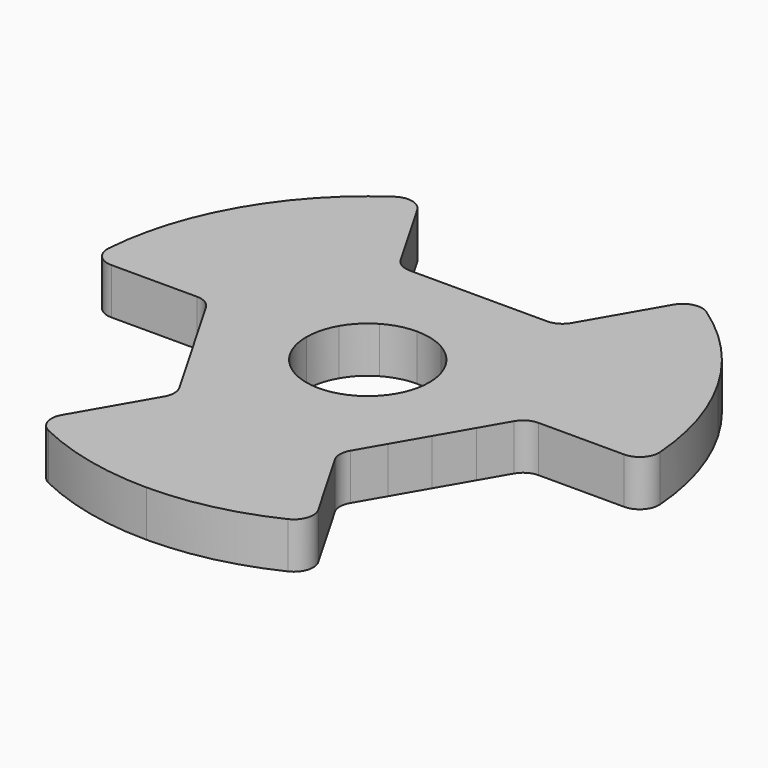
from build123d import *

# Parameters (mm, degrees)
F1_DEPTH = 4.7625
F2_R     = 2


with BuildPart() as f1:
    # F0 (on Top) → F1 (new body)
    with BuildSketch(Plane.XY):
        with BuildLine():
            Line((-7.14375, -12.3733379566), (-3.175, -5.499261314))
            ThreePointArc((-3.175, -5.499261314), (-4.4901280605, -4.4901280605), (-5.499261314, -3.175))
            Line((-5.499261314, -3.175), (-12.3733379566, -7.14375))
            Line((-12.3733379566, -7.14375), (-10.4591759131, -10.4591759131))
            Line((-10.4591759131, -10.4591759131), (-7.14375, -12.3733379566))
        make_face()
        with BuildLine():
            Line((12.3733379566, -7.14375), (5.499261314, -3.175))
            ThreePointArc((5.499261314, -3.175), (4.4901280605, -4.4901280605), (3.175, -5.499261314))
            Line((3.175, -5.499261314), (7.14375, -12.3733379566))
            Line((7.14375, -12.3733379566), (10.4591759131, -10.4591759131))
            Line((10.4591759131, -10.4591759131), (12.3733379566, -7.14375))
        make_face()
        with BuildLine():
            Line((14.2875, 0), (6.35, 0))
            ThreePointArc((6.35, 0), (6.1336289969, -1.6435009364), (5.499261314, -3.175))
            Line((5.499261314, -3.175), (12.3733379566, -7.14375))
            Line((12.3733379566, -7.14375), (14.2875, -3.8283240869))
            Line((14.2875, -3.8283240869), (14.2875, 0))
        make_face()
        with BuildLine():
            ThreePointArc((0, 6.35), (1.6435009364, 6.1336289969), (3.175, 5.499261314))
            Line((3.175, 5.499261314), (7.14375, 12.3733379566))
            Line((7.14375, 12.3733379566), (3.8283240869, 14.2875))
            Line((3.8283240869, 14.2875), (0, 14.2875))
            Line((0, 14.2875), (0, 6.35))
        make_face()
        with BuildLine():
            ThreePointArc((-3.175, 5.499261314), (-1.6435009364, 6.1336289969), (0, 6.35))
            Line((0, 6.35), (0, 14.2875))
            Line((0, 14.2875), (-3.8283240869, 14.2875))
            Line((-3.8283240869, 14.2875), (-7.14375, 12.3733379566))
            Line((-7.14375, 12.3733379566), (-3.175, 5.499261314))
        make_face()
        with BuildLine():
            Line((-12.3733379566, -7.14375), (-5.499261314, -3.175))
            ThreePointArc((-5.499261314, -3.175), (-6.1336289969, -1.6435009364), (-6.35, 0))
            Line((-6.35, 0), (-14.2875, 0))
            Line((-14.2875, 0), (-14.2875, -3.8283240869))
            Line((-14.2875, -3.8283240869), (-12.3733379566, -7.14375))
        make_face()
        Polygon((-8.248891971, -14.2875), (-7.14375, -12.3733379566), (-10.4591759131, -10.4591759131), align=None)
        Polygon((-3.8283240869, -14.2875), (-7.14375, -12.3733379566), (-8.248891971, -14.2875), align=None)
        Polygon((0, -16.4977839421), (-3.8283240869, -14.2875), (-8.248891971, -14.2875), (-5.2295879566, -19.5170879566), align=None)
        Polygon((0, -28.575), (0, -16.4977839421), (-5.2295879566, -19.5170879566), align=None)
        Polygon((5.2295879566, -19.5170879566), (0, -16.4977839421), (0, -28.575), align=None)
        Polygon((8.248891971, -14.2875), (3.8283240869, -14.2875), (0, -16.4977839421), (5.2295879566, -19.5170879566), align=None)
        Polygon((8.248891971, -14.2875), (7.14375, -12.3733379566), (3.8283240869, -14.2875), align=None)
        Polygon((10.4591759131, -10.4591759131), (7.14375, -12.3733379566), (8.248891971, -14.2875), align=None)
        Polygon((0, -16.4977839421), (0, -14.2875), (-3.8283240869, -14.2875), align=None)
        Polygon((3.8283240869, -14.2875), (0, -14.2875), (0, -16.4977839421), align=None)
        Polygon((16.4977839421, 0), (14.2875, 0), (14.2875, -3.8283240869), align=None)
        Polygon((14.2875, 3.8283240869), (16.4977839421, 0), (19.5170879566, 5.2295879566), (14.2875, 8.248891971), align=None)
        Polygon((14.2875, 3.8283240869), (14.2875, 0), (16.4977839421, 0), align=None)
        Polygon((14.2875, 8.248891971), (12.3733379566, 7.14375), (14.2875, 3.8283240869), align=None)
        Polygon((10.4591759131, 10.4591759131), (12.3733379566, 7.14375), (14.2875, 8.248891971), align=None)
        Polygon((8.248891971, 14.2875), (10.4591759131, 10.4591759131), (14.2875, 8.248891971), (14.2875, 14.2875), align=None)
        Polygon((3.8283240869, 14.2875), (7.14375, 12.3733379566), (8.248891971, 14.2875), align=None)
        Polygon((8.248891971, 14.2875), (7.14375, 12.3733379566), (10.4591759131, 10.4591759131), align=None)
        Polygon((14.2875, 14.2875), (14.2875, 8.248891971), (24.7466759131, 14.2875), align=None)
        Polygon((24.7466759131, 14.2875), (14.2875, 8.248891971), (19.5170879566, 5.2295879566), align=None)
        Polygon((-14.2875, -3.8283240869), (-14.2875, 0), (-16.4977839421, 0), align=None)
        Polygon((-16.4977839421, 0), (-14.2875, 0), (-14.2875, 3.8283240869), align=None)
        Polygon((-16.4977839421, 0), (-14.2875, 3.8283240869), (-14.2875, 8.248891971), (-19.5170879566, 5.2295879566), align=None)
        Polygon((-14.2875, 3.8283240869), (-12.3733379566, 7.14375), (-14.2875, 8.248891971), align=None)
        Polygon((-10.4591759131, 10.4591759131), (-7.14375, 12.3733379566), (-8.248891971, 14.2875), align=None)
        Polygon((-8.248891971, 14.2875), (-7.14375, 12.3733379566), (-3.8283240869, 14.2875), align=None)
        Polygon((-14.2875, 8.248891971), (-12.3733379566, 7.14375), (-10.4591759131, 10.4591759131), align=None)
        Polygon((-10.4591759131, 10.4591759131), (-8.248891971, 14.2875), (-14.2875, 14.2875), (-14.2875, 8.248891971), align=None)
        Polygon((-24.7466759131, 14.2875), (-14.2875, 8.248891971), (-14.2875, 14.2875), align=None)
        Polygon((-19.5170879566, 5.2295879566), (-14.2875, 8.248891971), (-24.7466759131, 14.2875), align=None)
        with BuildLine():
            Line((-19.5170879566, 5.2295879566), (-24.7466759131, 14.2875))
            ThreePointArc((-24.7466759131, 14.2875), (-27.6013304862, 7.3957542138), (-28.575, 0))
            Line((-28.575, 0), (-19.5170879566, 5.2295879566))
        make_face()
        with BuildLine():
            Line((-24.7466759131, 14.2875), (-14.2875, 14.2875))
            Line((-14.2875, 14.2875), (-14.2875, 24.7466759131))
            ThreePointArc((-14.2875, 24.7466759131), (-20.2055762724, 20.2055762724), (-24.7466759131, 14.2875))
        make_face()
        with BuildLine():
            ThreePointArc((-14.2875, -24.7466759131), (-7.3957542138, -27.6013304862), (0, -28.575))
            Line((0, -28.575), (-5.2295879566, -19.5170879566))
            Line((-5.2295879566, -19.5170879566), (-14.2875, -24.7466759131))
        make_face()
        with BuildLine():
            Line((14.2875, -24.7466759131), (5.2295879566, -19.5170879566))
            Line((5.2295879566, -19.5170879566), (0, -28.575))
            ThreePointArc((0, -28.575), (7.3957542138, -27.6013304862), (14.2875, -24.7466759131))
        make_face()
        with BuildLine():
            Line((14.2875, 14.2875), (24.7466759131, 14.2875))
            ThreePointArc((24.7466759131, 14.2875), (20.2055762724, 20.2055762724), (14.2875, 24.7466759131))
            Line((14.2875, 24.7466759131), (14.2875, 14.2875))
        make_face()
        with BuildLine():
            Line((24.7466759131, 14.2875), (19.5170879566, 5.2295879566))
            Line((19.5170879566, 5.2295879566), (28.575, 0))
            ThreePointArc((28.575, 0), (27.6013304862, 7.3957542138), (24.7466759131, 14.2875))
        make_face()
        Polygon((19.5170879566, 5.2295879566), (16.4977839421, 0), (28.575, 0), align=None)
        Polygon((14.2875, 24.7466759131), (8.248891971, 14.2875), (14.2875, 14.2875), align=None)
        Polygon((14.2875, -24.7466759131), (8.248891971, -14.2875), (5.2295879566, -19.5170879566), align=None)
        Polygon((-5.2295879566, -19.5170879566), (-8.248891971, -14.2875), (-14.2875, -24.7466759131), align=None)
        Polygon((-28.575, 0), (-16.4977839421, 0), (-19.5170879566, 5.2295879566), align=None)
        Polygon((-14.2875, 14.2875), (-8.248891971, 14.2875), (-14.2875, 24.7466759131), align=None)
        with BuildLine():
            ThreePointArc((3.175, 5.499261314), (4.4901280605, 4.4901280605), (5.499261314, 3.175))
            Line((5.499261314, 3.175), (12.3733379566, 7.14375))
            Line((12.3733379566, 7.14375), (10.4591759131, 10.4591759131))
            Line((10.4591759131, 10.4591759131), (7.14375, 12.3733379566))
            Line((7.14375, 12.3733379566), (3.175, 5.499261314))
        make_face()
        with BuildLine():
            ThreePointArc((5.499261314, 3.175), (6.1336289969, 1.6435009364), (6.35, 0))
            Line((6.35, 0), (14.2875, 0))
            Line((14.2875, 0), (14.2875, 3.8283240869))
            Line((14.2875, 3.8283240869), (12.3733379566, 7.14375))
            Line((12.3733379566, 7.14375), (5.499261314, 3.175))
        make_face()
        with BuildLine():
            ThreePointArc((-6.35, 0), (-6.1336289969, 1.6435009364), (-5.499261314, 3.175))
            Line((-5.499261314, 3.175), (-12.3733379566, 7.14375))
            Line((-12.3733379566, 7.14375), (-14.2875, 3.8283240869))
            Line((-14.2875, 3.8283240869), (-14.2875, 0))
            Line((-14.2875, 0), (-6.35, 0))
        make_face()
        with BuildLine():
            ThreePointArc((-5.499261314, 3.175), (-4.4901280605, 4.4901280605), (-3.175, 5.499261314))
            Line((-3.175, 5.499261314), (-7.14375, 12.3733379566))
            Line((-7.14375, 12.3733379566), (-10.4591759131, 10.4591759131))
            Line((-10.4591759131, 10.4591759131), (-12.3733379566, 7.14375))
            Line((-12.3733379566, 7.14375), (-5.499261314, 3.175))
        make_face()
        with BuildLine():
            Line((0, -14.2875), (0, -6.35))
            ThreePointArc((0, -6.35), (-1.6435009364, -6.1336289969), (-3.175, -5.499261314))
            Line((-3.175, -5.499261314), (-7.14375, -12.3733379566))
            Line((-7.14375, -12.3733379566), (-3.8283240869, -14.2875))
            Line((-3.8283240869, -14.2875), (0, -14.2875))
        make_face()
        with BuildLine():
            Line((7.14375, -12.3733379566), (3.175, -5.499261314))
            ThreePointArc((3.175, -5.499261314), (1.6435009364, -6.1336289969), (0, -6.35))
            Line((0, -6.35), (0, -14.2875))
            Line((0, -14.2875), (3.8283240869, -14.2875))
            Line((3.8283240869, -14.2875), (7.14375, -12.3733379566))
        make_face()
    extrude(amount=F1_DEPTH)

    # F2
    f2_edges = [f1.edges().sort_by_distance(p)[0] for p in [
        (-28.575, 0, 2.38125),
        (28.575, 0, 2.38125),
        (14.2875, -24.746676, 2.38125),
        (-14.2875, -24.746676, 2.38125),
        (-14.2875, 24.746676, 2.38125),
        (14.2875, 24.746676, 2.38125),
        (8.248892, -14.2875, 2.38125),
        (-8.248892, 14.2875, 2.38125),
        (8.248892, 14.2875, 2.38125),
        (-16.497784, 0, 2.38125),
        (-8.248892, -14.2875, 2.38125),
        (16.497784, 0, 2.38125),
    ]]
    fillet(f2_edges, radius=F2_R)


solid = f1.part
